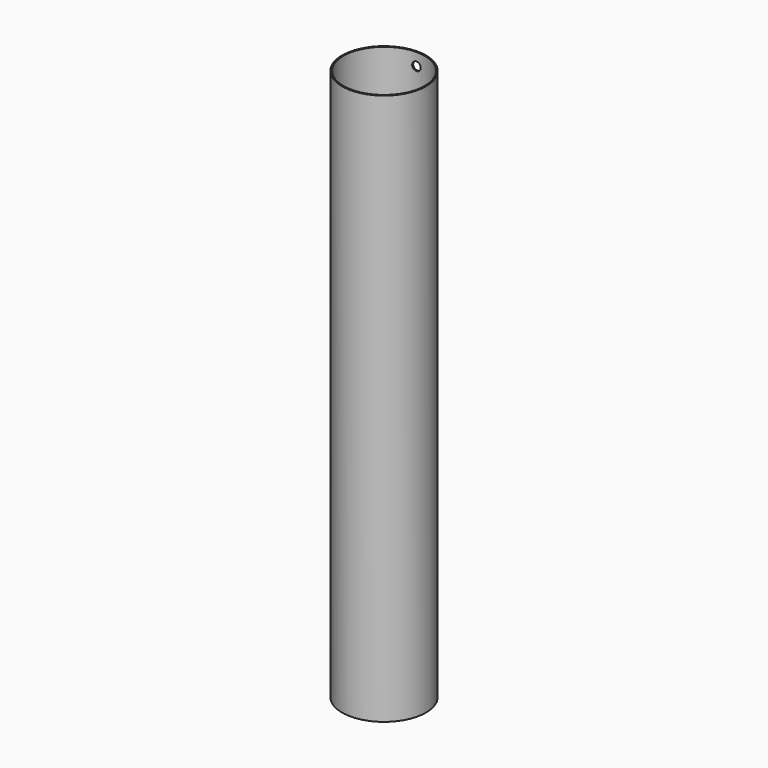
from build123d import *

# Parameters (mm, degrees)
F0_R     = 88.9
F0_R_2   = 86.233
F1_DEPTH = 1168.4
F2_R     = 9.017
F3_DEPTH = 203.2


with BuildPart() as f1:
    # F0 (on Top) → F1 (new body)
    with BuildSketch(Plane.XY):
        Circle(F0_R)
        Circle(F0_R_2, mode=Mode.SUBTRACT)
    extrude(amount=F1_DEPTH)

    # F2 (on Front) → F3 (cut)
    with BuildSketch(Plane.XZ):
        with Locations((0, 1141.9205)):
            Circle(F2_R)
        with Locations((0, 26.4795)):
            Circle(F2_R)
    extrude(amount=-F3_DEPTH, mode=Mode.SUBTRACT)


solid = f1.part
